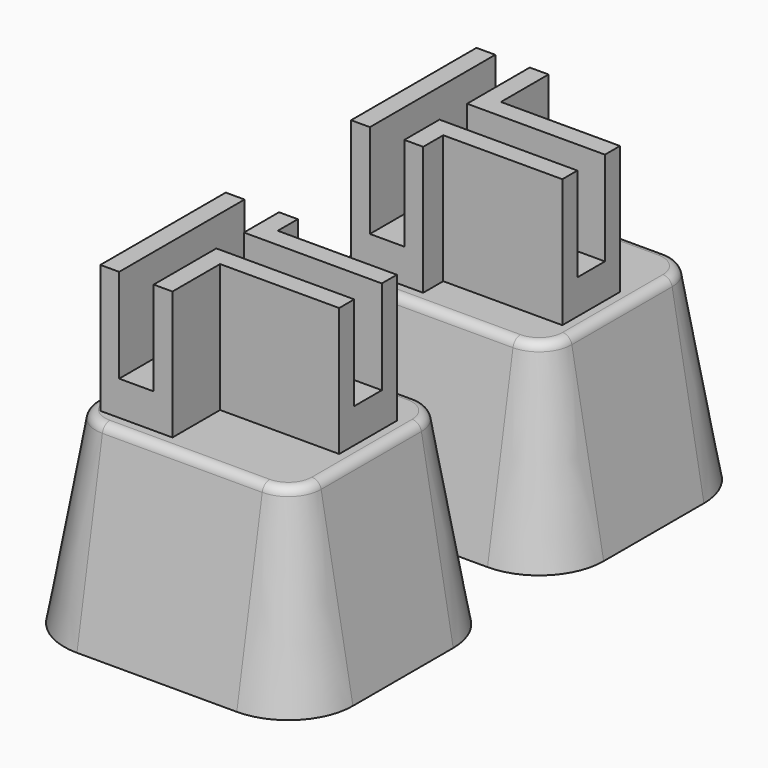
from build123d import *

# Parameters (mm, degrees)
F0_W     = 3
F0_H     = 25
F1_DEPTH = 20.5
F2_DEPTH = 5.5
F0_W_2   = 19
F0_H_2   = 4
F0_H_3   = 9.5
F3_DEPTH = 30
F3_TAPER = -10
F4_R     = 1.5


with BuildPart() as f1:
    # F0 (on Top) → F1 (new body)
    with BuildSketch(Plane.XY):
        with Locations((-13.75, 0)):
            Rectangle(F0_W, F0_H)
    extrude(amount=F1_DEPTH)



with BuildPart() as f1b:
    # F0 (on Top) → F1, piece 2 (new body)
    with BuildSketch(Plane.XY):
        Polygon((15.25, -3), (15.25, 0), (-6.75, 0), (-6.75, -12.5), (-3.75, -12.5), (-3.75, -3), align=None)
    extrude(amount=F1_DEPTH)


with BuildPart() as f1c:
    # F0 (on Top) → F1, piece 3 (new body)
    with BuildSketch(Plane.XY):
        Polygon((-3.75, 8.5), (-3.75, 12.5), (-6.75, 12.5), (-6.75, 5.5), (15.25, 5.5), (15.25, 8.5), align=None)
    extrude(amount=F1_DEPTH)


with BuildPart() as f1_1:
    add(f1.part)

    add(f1b.part)  # F2 merges F1b

    add(f1c.part)  # F2 merges F1c
    # F0 (on Top) → F2 (join)
    with BuildSketch(Plane.XY):
        Polygon((-6.75, 5.5), (-6.75, 12.5), (-12.25, 12.5), (-12.25, -12.5), (-6.75, -12.5), (-6.75, 0), (15.25, 0), (15.25, 5.5), align=None)
    extrude(amount=F2_DEPTH)

    # F0 (on Top) → F3 (join)
    with BuildSketch(Plane.XY):
        with BuildLine():
            Line((-12.75, -15), (12.75, -15))
            ThreePointArc((12.75, -15), (16.2855339059, -13.5355339059), (17.75, -10))
            Line((17.75, -10), (17.75, 10))
            ThreePointArc((17.75, 10), (16.2855339059, 13.5355339059), (12.75, 15))
            Line((12.75, 15), (-12.75, 15))
            ThreePointArc((-12.75, 15), (-16.2855339059, 13.5355339059), (-17.75, 10))
            Line((-17.75, 10), (-17.75, -10))
            ThreePointArc((-17.75, -10), (-16.2855339059, -13.5355339059), (-12.75, -15))
        make_face()
        Polygon((-3.75, 12.5), (15.25, 12.5), (15.25, 8.5), (15.25, 5.5), (15.25, 0), (15.25, -3), (15.25, -12.5), (-3.75, -12.5), (-6.75, -12.5), (-12.25, -12.5), (-15.25, -12.5), (-15.25, 12.5), (-12.25, 12.5), (-6.75, 12.5), align=None, mode=Mode.SUBTRACT)
        with Locations((-13.75, 0)):
            Rectangle(F0_W, F0_H)
        Polygon((-6.75, 5.5), (-6.75, 12.5), (-12.25, 12.5), (-12.25, -12.5), (-6.75, -12.5), (-6.75, 0), (15.25, 0), (15.25, 5.5), align=None)
        Polygon((15.25, -3), (15.25, 0), (-6.75, 0), (-6.75, -12.5), (-3.75, -12.5), (-3.75, -3), align=None)
        Polygon((-3.75, 8.5), (-3.75, 12.5), (-6.75, 12.5), (-6.75, 5.5), (15.25, 5.5), (15.25, 8.5), align=None)
        with Locations((5.75, 10.5)):
            Rectangle(F0_W_2, F0_H_2)
        with Locations((5.75, -7.75)):
            Rectangle(F0_W_2, F0_H_3)
    extrude(amount=-F3_DEPTH, taper=F3_TAPER)

    # F4
    f4_edges = [f1_1.edges().sort_by_distance(p)[0] for p in [
        (-17.75, 0, 0),
        (-16.285534, -13.535534, 0),
        (-16.285534, 13.535534, 0),
        (0, 15, 0),
        (16.285534, 13.535534, 0),
        (17.75, 0, 0),
        (0, -15, 0),
        (16.285534, -13.535534, 0),
    ]]
    fillet(f4_edges, radius=F4_R)


with BuildPart() as f6_1:
    # F6: instance of F1
    add(f1_1.part.mirror(Plane.XZ.offset(-25)))


solid = Compound([f1_1.part, f6_1.part])
